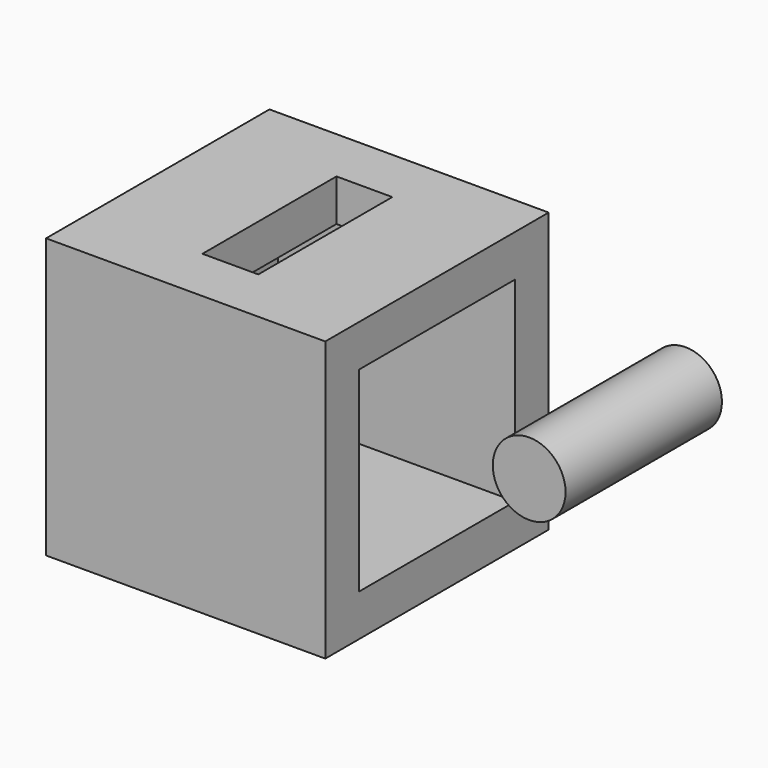
from build123d import *

# Parameters (mm, degrees)
F0_W     = 25.4
F0_H     = 25.4
F1_DEPTH = 25.4
F3_T     = -3.81
F2_W     = 5.08
F2_H     = 15.24
F4_DEPTH = 3.81
F5_R     = 3.310311
F6_DEPTH = 17.78


with BuildPart() as f1:
    # F0 (on Top) → F1 (new body)
    with BuildSketch(Plane.XY):
        with Locations((7.719, 8.301484)):
            Rectangle(F0_W, F0_H)
    extrude(amount=F1_DEPTH)

    # F3
    f3_openings = [f1.faces().sort_by_distance(p)[0] for p in [
        (20.419, 8.301484, 12.7),
    ]]
    offset(amount=F3_T, openings=f3_openings)

    # F2 (on face) → F4 (cut)
    with BuildSketch(Plane.XY.offset(25.4)):
        with Locations((7.719, 8.301484)):
            Rectangle(F2_W, F2_H)
    extrude(amount=-F4_DEPTH, mode=Mode.SUBTRACT)


with BuildPart() as f6:
    # F5 (on face) → F6 (new body)
    with BuildSketch(Plane.XZ.offset(-17.191484)):
        with Locations((35.917625, 17.900087)):
            Circle(F5_R)
    extrude(amount=F6_DEPTH)


solid = Compound([f1.part, f6.part])
